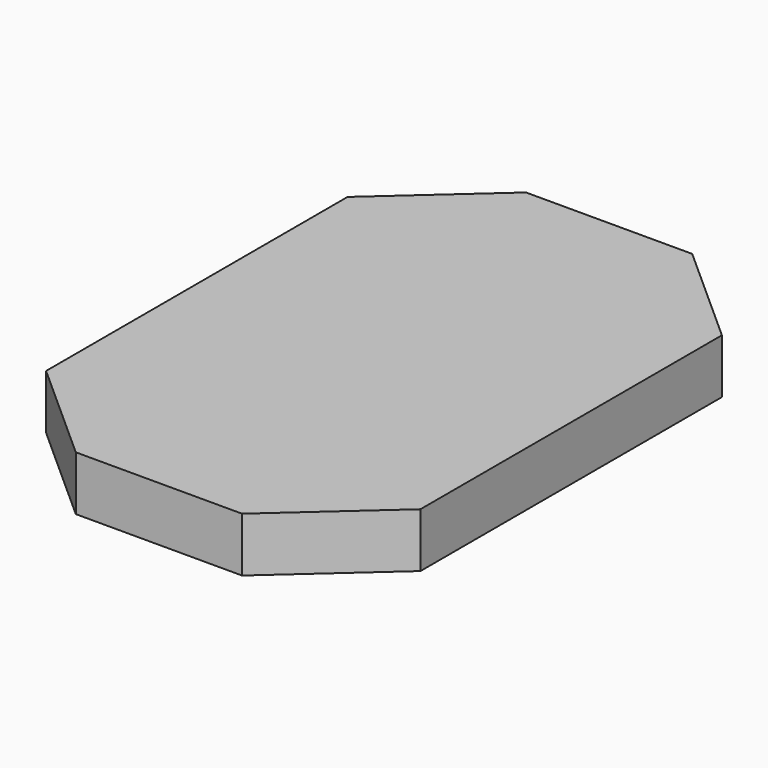
from build123d import *

# Parameters (mm, degrees)
F0_W     = 58.166
F0_H     = 32.5158777015
F0_W_2   = 36.404587799
F0_H_2   = 131.826
F1_DEPTH = 19.05


with BuildPart() as f1:
    # F0 (on Top) → F1 (new body)
    with BuildSketch(Plane.XY):
        with Locations((0, 82.1709388507)):
            Rectangle(F0_W, F0_H)
        with Locations((-47.2852938995, 0)):
            Rectangle(F0_W_2, F0_H_2)
        Polygon((-29.083, 65.913), (-29.083, 98.4288777015), (-65.487587799, 65.913), align=None)
        Rectangle(F0_W, F0_H_2)
        with Locations((47.2852938995, 0)):
            Rectangle(F0_W_2, F0_H_2)
        Polygon((65.487587799, 65.913), (29.083, 98.4288777015), (29.083, 65.913), align=None)
        Polygon((65.487587799, -65.913), (29.083, -65.913), (29.083, -98.4288777015), align=None)
        with Locations((0, -82.1709388507)):
            Rectangle(F0_W, F0_H)
        Polygon((-29.083, -98.4288777015), (-29.083, -65.913), (-65.487587799, -65.913), align=None)
    extrude(amount=F1_DEPTH)


solid = f1.part
